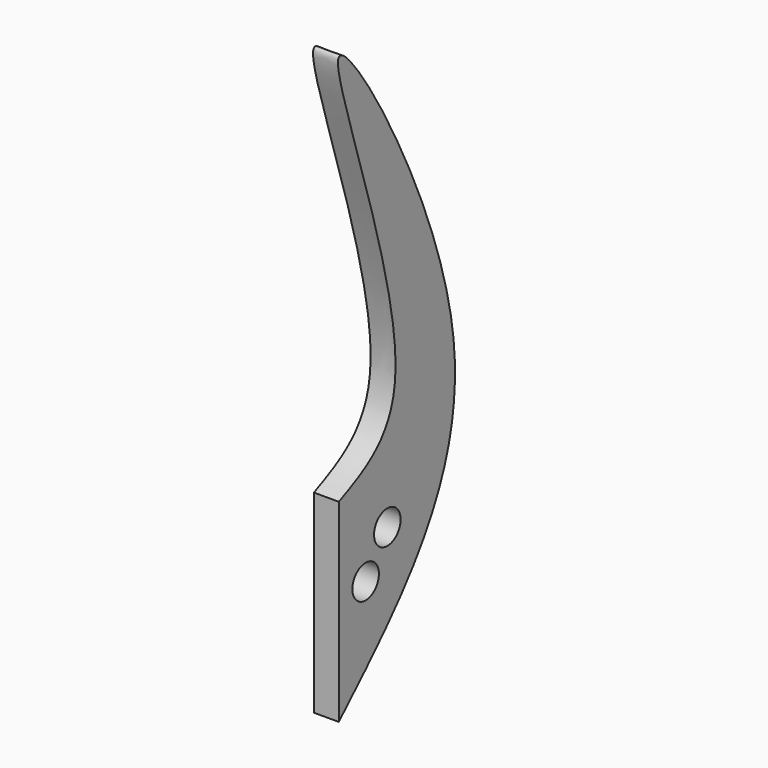
from build123d import *

# Parameters (mm, degrees)
F0_R     = 3.3274
F1_DEPTH = 5


with BuildPart() as f1:
    # F0 (on Right) → F1 (new body)
    with BuildSketch(Plane.YZ):
        with BuildLine():
            Line((0, -17.0114710927), (0, -55.8948367834))
            add(Edge.make_bspline(
                [(0, -55.8948367834), (15.8676044293, -40.7242866382), (48.2258486977, -9.7875205076), (-20.2005839998, 100.745458921), (25.2879272635, -5.658414522), (6.857558871, -13.9327587495), (0, -17.0114710927)],
                knots=[0, 0, 0, 0, 0.2751046184, 0.5610111143, 0.8366613155, 1, 1, 1, 1], degree=3))
        make_face()
        with Locations((6.7298146896, -33.8360033929)):
            Circle(F0_R, mode=Mode.SUBTRACT)
        with Locations((12.16935087, -26.4368709177)):
            Circle(F0_R, mode=Mode.SUBTRACT)
    extrude(amount=F1_DEPTH)


solid = f1.part
